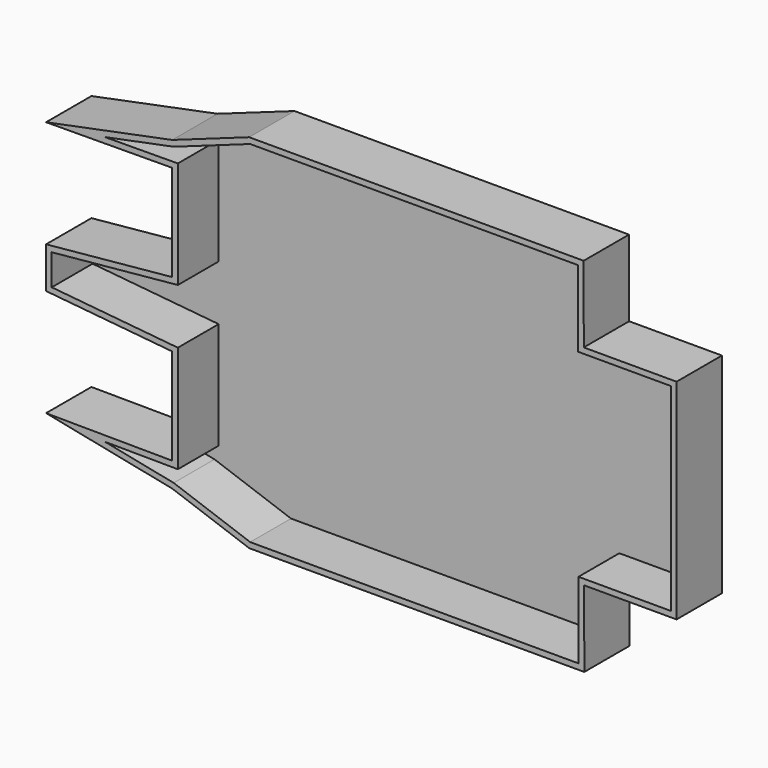
from build123d import *

# Parameters (mm, degrees)
F1_DEPTH = 25.4
F2_T     = -2.54


with BuildPart() as f1:
    # F0 (on Front) → F1 (new body)
    with BuildSketch(Plane.XZ):
        Polygon((-49.9549284577, -57.7479749918), (-49.9549284577, 57.7479749918), (-84.4545662403, 57.7479749918), (-84.4545662403, 14.6633386612), (-84.4545662403, -14.6633386612), (-84.4545662403, -57.7479749918), align=None)
        Polygon((-84.4545662403, 57.7479749918), (-84.4545662403, 68.7423571944), (-140.9429758787, 57.3688596487), align=None)
        Polygon((-84.4545662403, -14.6633386612), (-84.4545662403, 14.6633386612), (-140.9429758787, 9.2210201547), (-140.9429758787, -9.2210201547), align=None)
        Polygon((-140.9429758787, -57.3688596487), (-84.4545662403, -68.7423571944), (-84.4545662403, -57.7479749918), align=None)
        Polygon((-84.4545662403, -68.7423571944), (-49.9549284577, -81.0392451267), (-49.9549284577, -57.7479749918), (-84.4545662403, -57.7479749918), align=None)
        Polygon((0, -81.0392451267), (0, 81.0392451267), (-49.9549284577, 81.0392451267), (-49.9549284577, 57.7479749918), (-49.9549284577, -57.7479749918), (-49.9549284577, -81.0392451267), align=None)
        Polygon((99.88479051, 81.0392451267), (0, 81.0392451267), (0, -81.0392451267), (100.1753211021, -81.0392451267), (100.1140988569, -46.8851514161), (99.9460127552, 46.8851514161), align=None)
        Polygon((141.5084600449, 46.8851514161), (99.9460127552, 46.8851514161), (100.1140988569, -46.8851514161), (141.5084600449, -46.8851514161), (141.5084600449, 0), align=None)
        Polygon((-49.9549284577, 57.7479749918), (-49.9549284577, 81.0392451267), (-84.4545662403, 68.7423571944), (-84.4545662403, 57.7479749918), align=None)
    extrude(amount=F1_DEPTH)

    # F2
    f2_openings = [f1.faces().sort_by_distance(p)[0] for p in [
        (14.722317, -25.4, -0.014513),
    ]]
    offset(amount=F2_T, openings=f2_openings, kind=Kind.INTERSECTION)


solid = f1.part
